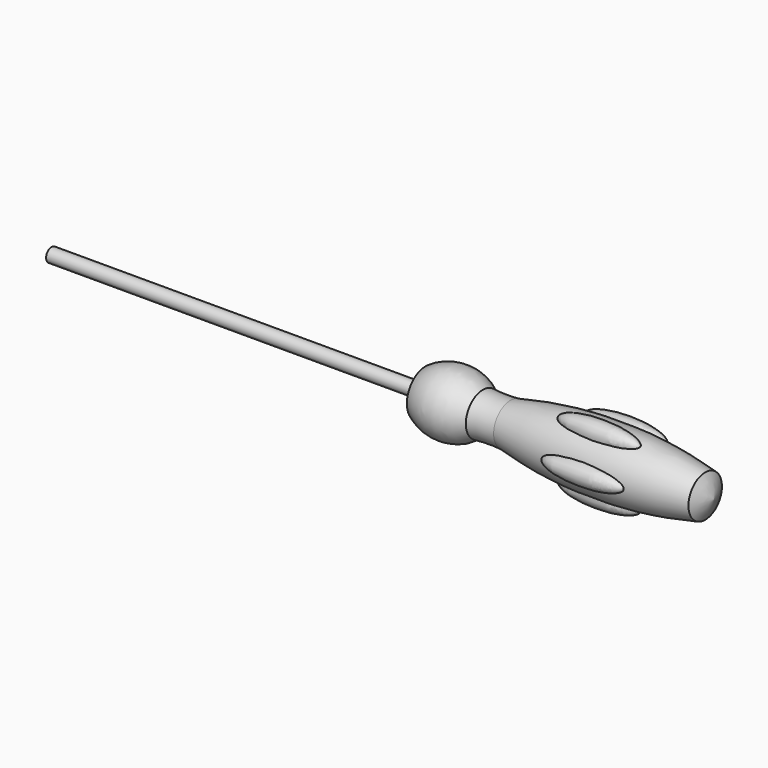
from build123d import *

# Parameters (mm, degrees)
F0_W     = 151.5329424292
F0_H     = 3.7133402494
F4_ANGLE = 180
F5_COUNT = 5


with BuildPart() as f1:
    # F0 (on Front) → F1 (revolve)
    with BuildSketch(Plane.XZ):
        with Locations((99.7306434438, 0)):
            Rectangle(F0_W, F0_H)
        with BuildLine():
            Line((23.9641722292, 1.8566701247), (175.4971146584, 1.8566701247))
            Line((175.4971146584, 1.8566701247), (175.4971146584, 9.4891721383))
            ThreePointArc((175.4971146584, 9.4891721383), (122.7247356587, 15.4705152662), (69.9471286797, 9.5354792535))
            ThreePointArc((69.9471286797, 9.5354792535), (62.474233842, 9.2920202306), (55.0089683237, 9.7082416798))
            ThreePointArc((55.0089683237, 9.7082416798), (39.6723491046, 15.3568586499), (23.9641722292, 10.8433298753))
            Line((23.9641722292, 10.8433298753), (23.9641722292, 1.8566701247))
        make_face()
        with BuildLine():
            Line((175.4971146584, 9.4891721383), (175.4971146584, 1.8566701247))
            Line((175.4971146584, 1.8566701247), (175.4971146584, -1.8566701247))
            Line((175.4971146584, -1.8566701247), (180.2137970819, -1.8566701247))
            ThreePointArc((180.2137970819, -1.8566701247), (178.2700579062, 3.9886089588), (175.4971146584, 9.4891721383))
        make_face()
        Polygon((23.9641722292, -1.8566701247), (23.9641722292, 1.8566701247), (-167.1610474587, 1.8566701247), (-178.7514039155, 1.8566701247), (-178.7514039155, -1.8566701247), align=None)
    revolve(axis=Axis((-1.6271446286, 0, -1.8566701247), (-1, 0, 0)))


with BuildPart() as f4:
    # F3 (on offset) → F4 (revolve)
    with BuildSketch(Plane.XZ.offset(16.002)):
        with BuildLine():
            Line((99.9419360029, -2.0253739785), (144.3910331858, -2.0253739785))
            add(Edge.make_bspline(
                [(144.3910331858, -2.0253739785), (144.3910331858, 3.5993391621), (122.1664845943, 3.5993391621), (99.9419360029, 3.5993391621), (99.9419360029, -2.0253739785)],
                knots=[0, 0, 0, 1.5707963268, 1.5707963268, 3.1415926536, 3.1415926536, 3.1415926536], degree=2, weights=[1, 0.7071067812, 1, 0.7071067812, 1]))
        make_face()
    revolve(axis=Axis((122.1664845943, -16.002, -2.0253739785), (1, 0, 0)), revolution_arc=F4_ANGLE)


with BuildPart() as f5_1:
    # F5: instance of F4
    add(f4.part.rotate(Axis((245.1267927833, 0, -1.8566701247), (1, 0, 0)), 1 * 360 / F5_COUNT))


with BuildPart() as f5_2:
    # F5: instance of F4
    add(f4.part.rotate(Axis((245.1267927833, 0, -1.8566701247), (1, 0, 0)), 2 * 360 / F5_COUNT))


with BuildPart() as f5_3:
    # F5: instance of F4
    add(f4.part.rotate(Axis((245.1267927833, 0, -1.8566701247), (1, 0, 0)), 3 * 360 / F5_COUNT))


with BuildPart() as f5_4:
    # F5: instance of F4
    add(f4.part.rotate(Axis((245.1267927833, 0, -1.8566701247), (1, 0, 0)), 4 * 360 / F5_COUNT))


solid = Compound([f1.part, f4.part, f5_1.part, f5_2.part, f5_3.part, f5_4.part])
